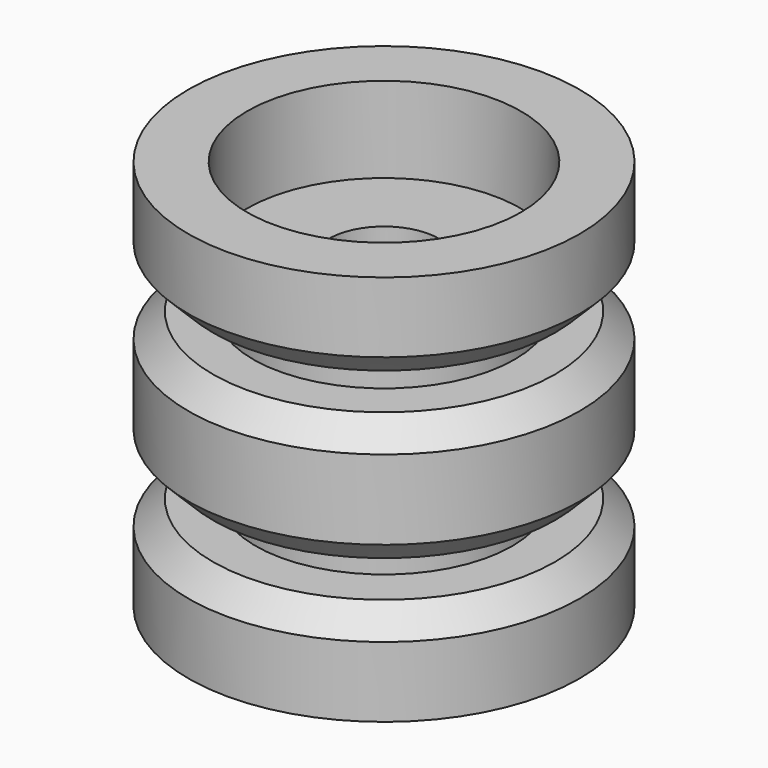
from build123d import *

# Parameters (mm, degrees)
CYLINDER006_R             = 10.7
CYLINDER006_DEPTH         = 7.25
CYLINDER007_R             = 4.5
CYLINDER007_DEPTH         = 32
CYLINDER005_R             = 10.7
CYLINDER005_DEPTH         = 7.25
CYLINDER004_R             = 16
CYLINDER004_DEPTH         = 6.5
CYLINDER010_R             = 11.2
CYLINDER010_DEPTH         = 7
CYLINDER009_R             = 4.5
CYLINDER009_DEPTH         = 32
CYLINDER001_R             = 10.5
CYLINDER001_DEPTH         = 7.25
CYLINDER_R                = 16
CYLINDER_DEPTH            = 5.75
CYLINDER011_R             = 11.2
CYLINDER011_DEPTH         = 7
CYLINDER008_R             = 4.5
CYLINDER008_DEPTH         = 32
CYLINDER003_R             = 10.5
CYLINDER003_DEPTH         = 7.25
CYLINDER002_R             = 16
CYLINDER002_DEPTH         = 5.75
FUSION001_PLACEMENT_ANGLE = 180


with BuildPart() as cylinder006:
    # Cylinder006 → Cylinder006 (new body)
    with BuildSketch(Plane.XY.offset(7.75)):
        Circle(CYLINDER006_R)
    extrude(amount=CYLINDER006_DEPTH)


with BuildPart() as cylinder007:
    # Cylinder007 → Cylinder007 (new body)
    with BuildSketch(Plane.XY):
        Circle(CYLINDER007_R)
    extrude(amount=CYLINDER007_DEPTH)


with BuildPart() as fusion003:
    # Cylinder005 → Cylinder005 (new body)
    with BuildSketch(Plane.XY.offset(17)):
        Circle(CYLINDER005_R)
    extrude(amount=CYLINDER005_DEPTH)

    # Fusion003: union Cylinder006, Cylinder007
    add(cylinder006.part)
    add(cylinder007.part)


with BuildPart() as cone002:
    # Cone002 → Cone002 (revolve)
    with BuildSketch(Plane(origin=(0, 0, 8.5), x_dir=(1, 0, 0), z_dir=(0, -1, 0))):
        Polygon((0, 0), (16, 0), (14, 2), (0, 2), align=None)
    revolve(axis=Axis((0, 0, 8.5), (0, 0, 1)))


with BuildPart() as cone003:
    # Cone003 → Cone003 (revolve)
    with BuildSketch(Plane.XZ):
        Polygon((0, 0), (14, 0), (16, 2), (0, 2), align=None)
    revolve(axis=Axis((0, 0, 0), (0, 0, 1)))


with BuildPart() as cut:
    # Cylinder004 → Cylinder004 (new body)
    with BuildSketch(Plane.XY.offset(2)):
        Circle(CYLINDER004_R)
    extrude(amount=CYLINDER004_DEPTH)

    # Fusion002: union Cone002, Cone003
    add(cone002.part)
    add(cone003.part)


with BuildPart() as cut_1:
    # Fusion002 placement: moved
    add(cut.part.moved(Location((0, 0, 10.75))))

    # Cut: cut Fusion003
    add(fusion003.part, mode=Mode.SUBTRACT)


with BuildPart() as cylinder010:
    # Cylinder010 → Cylinder010 (new body)
    with BuildSketch(Plane.XY):
        Circle(CYLINDER010_R)
    extrude(amount=CYLINDER010_DEPTH)


with BuildPart() as cylinder009:
    # Cylinder009 → Cylinder009 (new body)
    with BuildSketch(Plane.XY):
        Circle(CYLINDER009_R)
    extrude(amount=CYLINDER009_DEPTH)


with BuildPart() as cone:
    # Cone → Cone (revolve)
    with BuildSketch(Plane(origin=(0, 0, 5.75), x_dir=(1, 0, 0), z_dir=(0, -1, 0))):
        Polygon((0, 0), (16, 0), (14, 2), (0, 2), align=None)
    revolve(axis=Axis((0, 0, 5.75), (0, 0, 1)))


with BuildPart() as cylinder001:
    # Cylinder001 → Cylinder001 (new body)
    with BuildSketch(Plane.XY.offset(7.75)):
        Circle(CYLINDER001_R)
    extrude(amount=CYLINDER001_DEPTH)


with BuildPart() as cut003:
    # Cylinder → Cylinder (new body)
    with BuildSketch(Plane.XY):
        Circle(CYLINDER_R)
    extrude(amount=CYLINDER_DEPTH)

    # Fusion: union Cone, Cylinder001
    add(cone.part)
    add(cylinder001.part)

    # Cut002: cut Cylinder009
    add(cylinder009.part, mode=Mode.SUBTRACT)

    # Cut003: cut Cylinder010
    add(cylinder010.part, mode=Mode.SUBTRACT)


with BuildPart() as cylinder011:
    # Cylinder011 → Cylinder011 (new body)
    with BuildSketch(Plane.XY.offset(25)):
        Circle(CYLINDER011_R)
    extrude(amount=CYLINDER011_DEPTH)


with BuildPart() as cylinder008:
    # Cylinder008 → Cylinder008 (new body)
    with BuildSketch(Plane.XY):
        Circle(CYLINDER008_R)
    extrude(amount=CYLINDER008_DEPTH)


with BuildPart() as cone001:
    # Cone001 → Cone001 (revolve)
    with BuildSketch(Plane(origin=(0, 0, 5.75), x_dir=(1, 0, 0), z_dir=(0, -1, 0))):
        Polygon((0, 0), (16, 0), (14, 2), (0, 2), align=None)
    revolve(axis=Axis((0, 0, 5.75), (0, 0, 1)))


with BuildPart() as cylinder003:
    # Cylinder003 → Cylinder003 (new body)
    with BuildSketch(Plane.XY.offset(7.75)):
        Circle(CYLINDER003_R)
    extrude(amount=CYLINDER003_DEPTH)


with BuildPart() as cut004:
    # Cylinder002 → Cylinder002 (new body)
    with BuildSketch(Plane.XY):
        Circle(CYLINDER002_R)
    extrude(amount=CYLINDER002_DEPTH)

    # Fusion001: union Cone001, Cylinder003
    add(cone001.part)
    add(cylinder003.part)


with BuildPart() as cut004_1:
    # Fusion001 placement: moved
    add(cut004.part.moved(Location((0, 0, 32))).rotate(Axis((0, 0, 32), (1, 0, 0)), FUSION001_PLACEMENT_ANGLE))

    # Cut001: cut Cylinder008
    add(cylinder008.part, mode=Mode.SUBTRACT)

    # Cut004: cut Cylinder011
    add(cylinder011.part, mode=Mode.SUBTRACT)


solid = Compound([cut_1.part, cut003.part, cut004_1.part])
